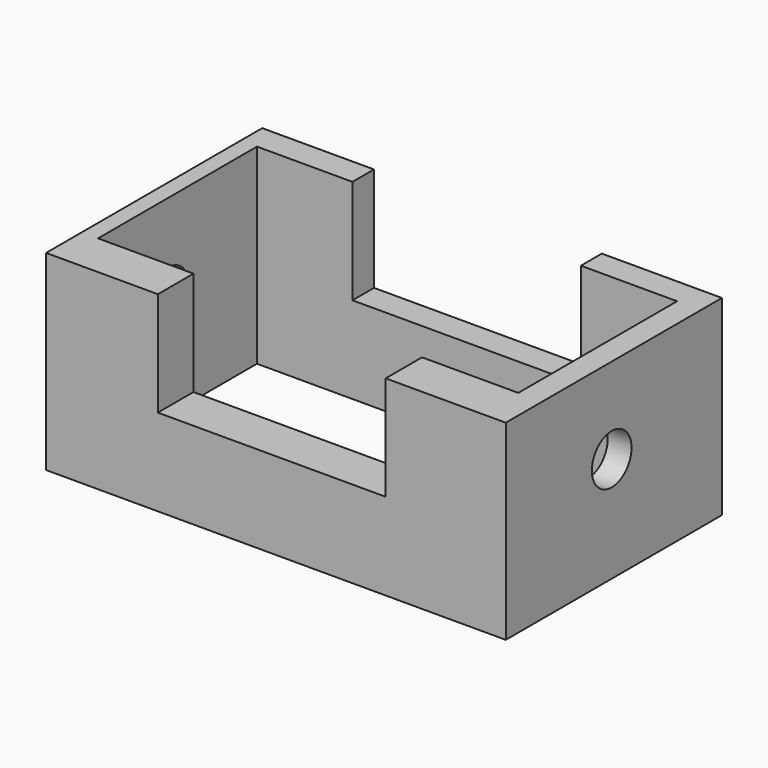
from build123d import *

# Parameters (mm, degrees)
F0_W      = 102.6049330831
F0_H      = 60.307007283
F1_DEPTH  = 42.672
F2_W      = 50.8497301489
F2_H      = 23.2719845266
F3_DEPTH  = 108.712
F4_W      = 21.308818832
F4_H      = 44.3562362343
F5_DEPTH  = 70.612
F6_W      = 50.8497301489
F6_H      = 44.3562362343
F7_DEPTH  = 37.592
F8_W      = 21.4821361005
F8_H      = 44.3062051199
F9_DEPTH  = 71.882
F10_R     = 5.5376210479
F11_DEPTH = 182.626


with BuildPart() as f1:
    # F0 (on Top) → F1 (new body)
    with BuildSketch(Plane.XY):
        with Locations((-2.9272511601, -17.3868890852)):
            Rectangle(F0_W, F0_H)
    extrude(amount=F1_DEPTH)

    # F2 (on face) → F3 (cut)
    with BuildSketch(Plane.XZ.offset(47.5403927267)):
        with Locations((-3.8559036329, 31.0360077367)):
            Rectangle(F2_W, F2_H)
    extrude(amount=-F3_DEPTH, mode=Mode.SUBTRACT)

    # F4 (on face) → F5 (cut)
    with BuildSketch(Plane.XY.offset(42.672)):
        with Locations((-39.9351781234, -15.4247684404)):
            Rectangle(F4_W, F4_H)
    extrude(amount=-F5_DEPTH, mode=Mode.SUBTRACT)

    # F6 (on face) → F7 (cut)
    with BuildSketch(Plane.XY.offset(19.4000154734)):
        with Locations((-3.8559036329, -15.4247684404)):
            Rectangle(F6_W, F6_H)
    extrude(amount=-F7_DEPTH, mode=Mode.SUBTRACT)

    # F8 (on face) → F9 (cut)
    with BuildSketch(Plane.XY.offset(42.672)):
        with Locations((32.3100294918, -15.2362354565)):
            Rectangle(F8_W, F8_H)
    extrude(amount=-F9_DEPTH, mode=Mode.SUBTRACT)

    # F10 (on face) → F11 (cut)
    with BuildSketch(Plane.YZ.offset(48.3752153814)):
        with Locations((-17.9856810719, 23.4969127923)):
            Circle(F10_R)
    extrude(amount=-F11_DEPTH, mode=Mode.SUBTRACT)


solid = f1.part
